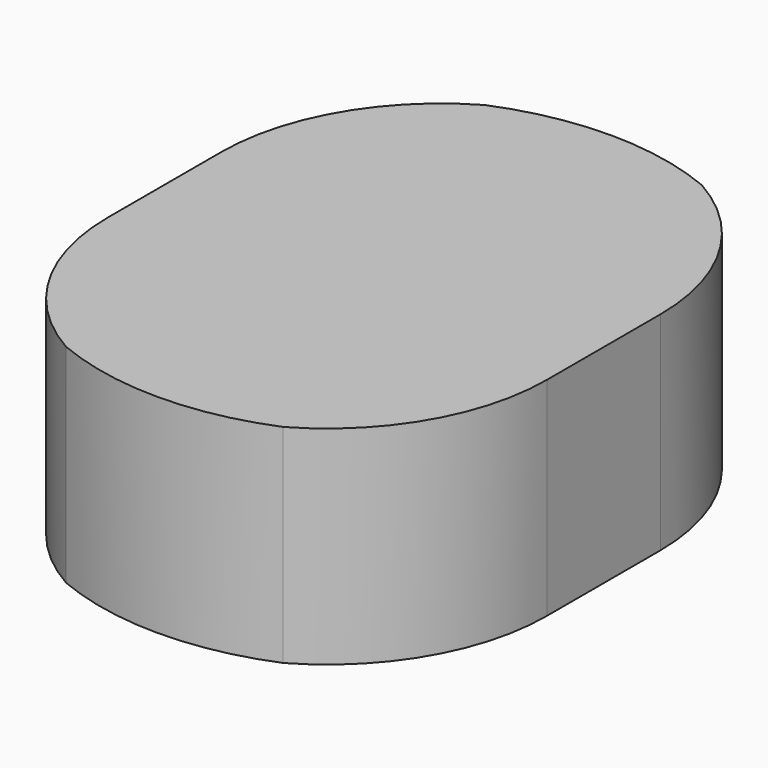
from build123d import *

# Parameters (mm, degrees)
F3_DEPTH = 22
F4_R     = 30
F5_DEPTH = 25


with BuildPart() as f3:
    # F2 (on Top) → F3 (new body)
    with BuildSketch(Plane.XY):
        with BuildLine():
            Line((23.25, -7.5), (23.25, 7.5))
            ThreePointArc((23.25, 7.5), (0, 30.75), (-23.25, 7.5))
            Line((-23.25, 7.5), (-23.25, -7.5))
            ThreePointArc((-23.25, -7.5), (0, -30.75), (23.25, -7.5))
        make_face()
    extrude(amount=F3_DEPTH)


with BuildPart() as f5:
    # F4 (on face) → F5 (new body)
    with BuildSketch(Plane.XY.offset(22)):
        Circle(F4_R)
    extrude(amount=-F5_DEPTH)

    # F6: intersect F3
    add(f3.part, mode=Mode.INTERSECT)


solid = f5.part
